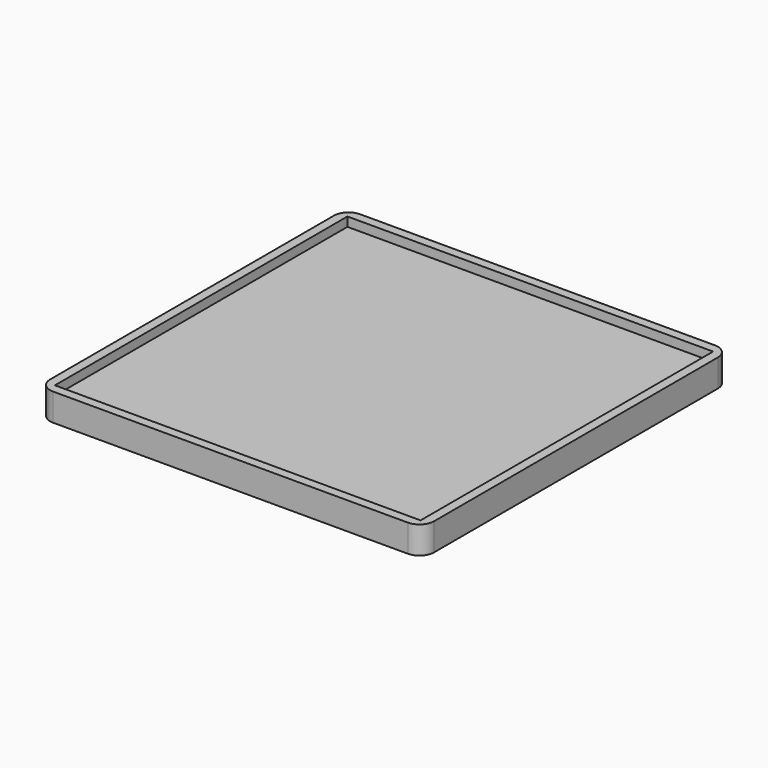
from build123d import *

# Parameters (mm, degrees)
F0_W     = 133.35
F0_H     = 133.35
F1_DEPTH = 6.35
F2_W     = 133.35
F2_H     = 133.35
F2_W_2   = 127
F2_H_2   = 127
F3_DEPTH = 3.175
F6_DEPTH = 3.175
F7_R     = 5.08


with BuildPart() as f1:
    # F0 (on Top) → F1 (new body)
    with BuildSketch(Plane.XY):
        with Locations((66.675, -66.675)):
            Rectangle(F0_W, F0_H)
    extrude(amount=F1_DEPTH)

    # F2 (on face) → F3 (join)
    with BuildSketch(Plane.XY.offset(6.35)):
        with Locations((66.675, -66.675)):
            Rectangle(F2_W, F2_H)
        with Locations((66.675, -66.675)):
            Rectangle(F2_W_2, F2_H_2, mode=Mode.SUBTRACT)
    extrude(amount=F3_DEPTH)

    # F5 (on face) → F6 (cut)
    with BuildSketch(Plane(origin=(0, 0, 0), x_dir=(1, 0, 0), z_dir=(0, 0, -1))):
        Polygon((73.025, 63.008826), (73.025, 70.341174), (66.675, 74.007348), (60.325, 70.341174), (60.325, 63.008826), (66.675, 59.342652), align=None)
    extrude(amount=-F6_DEPTH, mode=Mode.SUBTRACT)

    # F7
    f7_edges = [f1.edges().sort_by_distance(p)[0] for p in [
        (133.35, -133.35, 4.7625),
        (133.35, 0, 4.7625),
        (0, 0, 4.7625),
        (0, -133.35, 4.7625),
    ]]
    fillet(f7_edges, radius=F7_R)


solid = f1.part
